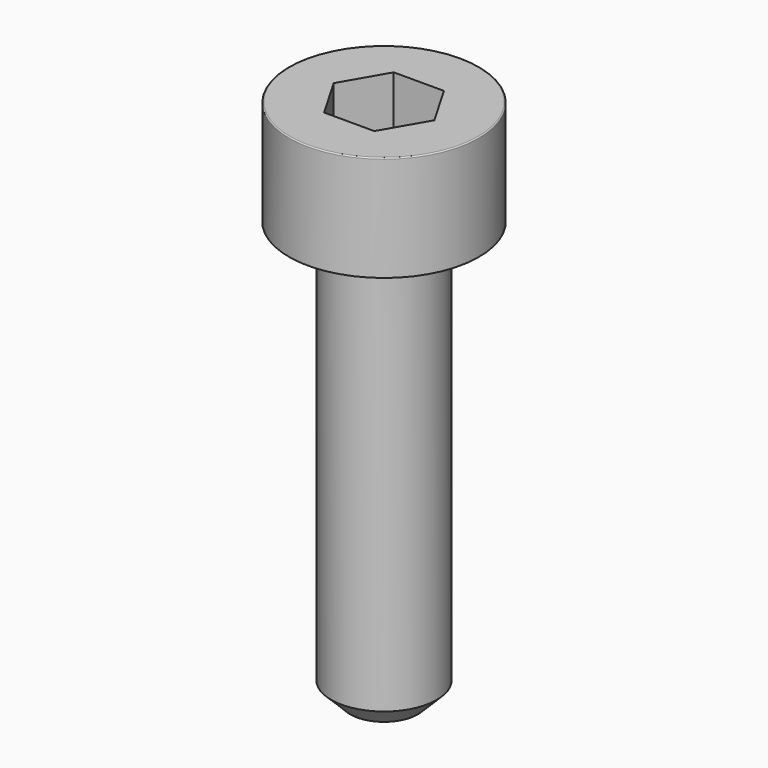
from build123d import *

# Parameters (mm, degrees)
POCKET_DEPTH = 2.06


with BuildPart() as part:
    # Sketch → Revolve (revolve)
    with BuildSketch(Plane.YZ):
        with BuildLine():
            Line((1.249, 0), (2.25, 0))
            Line((2.25, 0), (2.25, 2.47229))
            ThreePointArc((2.25, 2.47229), (2.241884, 2.491884), (2.22229, 2.5))
            Line((2.22229, 2.5), (0, 2.5))
            Line((0, -10), (0, 2.5))
            Line((0.8, -10), (0, -10))
            Line((1.25, -9.55), (0.8, -10))
            Line((1.25, -0.2), (1.25, -9.55))
            Line((1.249, 0), (1.25, -0.2))
        make_face()
    revolve(axis=Axis((0, 0, 0), (0, 0, 1)))

    # Sketch001 → Pocket (cut)
    with BuildSketch(Plane.XY.offset(2.5)):
        Polygon((1.189342, 0), (0.594671, 1.03), (-0.594671, 1.03), (-1.189342, 0), (-0.594671, -1.03), (0.594671, -1.03), align=None)
    extrude(amount=-POCKET_DEPTH, mode=Mode.SUBTRACT)


solid = part.part
